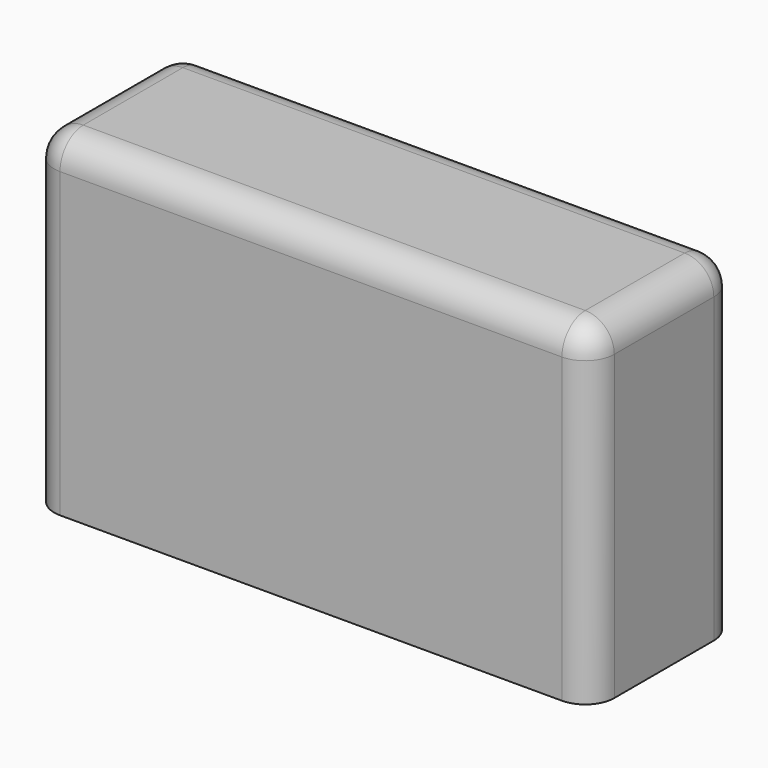
from build123d import *

# Parameters (mm, degrees)
F0_W     = 38.5
F0_H     = 22.8
F1_DEPTH = 12.55
F2_R     = 2
F3_T     = -0.5


with BuildPart() as f1:
    # F0 (on Front) → F1 (new body)
    with BuildSketch(Plane.XZ):
        with Locations((-26.358417, 20.3031)):
            Rectangle(F0_W, F0_H)
    extrude(amount=F1_DEPTH)

    # F2
    f2_edges = [f1.edges().sort_by_distance(p)[0] for p in [
        (-45.608417, -12.55, 20.3031),
        (-45.608417, 0, 20.3031),
        (-7.108417, -12.55, 20.3031),
        (-7.108417, 0, 20.3031),
        (-26.358417, -12.55, 31.7031),
        (-7.108417, -6.275, 31.7031),
        (-26.358417, 0, 31.7031),
        (-45.608417, -6.275, 31.7031),
    ]]
    fillet(f2_edges, radius=F2_R)

    # F3
    f3_openings = [f1.faces().sort_by_distance(p)[0] for p in [
        (-26.358417, -6.275, 8.9031),
    ]]
    offset(amount=F3_T, openings=f3_openings)


solid = f1.part
